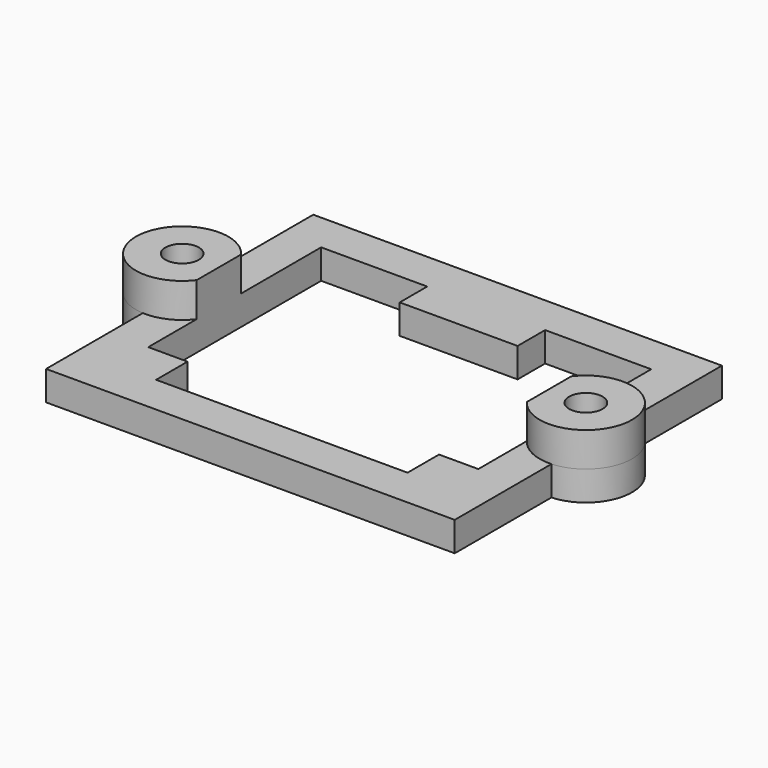
from build123d import *

# Parameters (mm, degrees)
F0_R     = 1.7
F1_DEPTH = 3
F2_R     = 1.7
F3_DEPTH = 3.5


with BuildPart() as f1:
    # F0 (on Top) → F1 (new body)
    with BuildSketch(Plane.XY):
        with BuildLine():
            Line((-20.8, -4.693346), (-20.8, -17))
            Line((-20.8, -17), (20.8, -17))
            Line((20.8, -17), (20.8, -4.693346))
            ThreePointArc((20.8, -4.693346), (25.25, 0), (20.8, 4.693346))
            Line((20.8, 4.693346), (20.8, 17))
            Line((20.8, 17), (-20.8, 17))
            Line((-20.8, 17), (-20.8, 4.693346))
            ThreePointArc((-20.8, 4.693346), (-25.25, 0), (-20.8, -4.693346))
        make_face()
        with Locations((-20.55, 0)):
            Circle(F0_R, mode=Mode.SUBTRACT)
        Polygon((-6, 13), (-6, 9.5), (6, 9.5), (6, 13), (16.8, 13), (16.8, -9), (12.8, -9), (12.8, -13), (-12.8, -13), (-12.8, -9), (-16.8, -9), (-16.8, 13), align=None, mode=Mode.SUBTRACT)
        with Locations((20.55, 0)):
            Circle(F0_R, mode=Mode.SUBTRACT)
    extrude(amount=F1_DEPTH)

    # F2 (on face) → F3 (join)
    with BuildSketch(Plane.XY.offset(3)):
        with BuildLine():
            Line((-16.8, -2.833284), (-16.8, 2.833284))
            ThreePointArc((-16.8, 2.833284), (-25.25, 0), (-16.8, -2.833284))
        make_face()
        with Locations((-20.55, 0)):
            Circle(F2_R, mode=Mode.SUBTRACT)
        with BuildLine():
            ThreePointArc((16.8, -2.833284), (25.25, 0), (16.8, 2.833284))
            Line((16.8, 2.833284), (16.8, -2.833284))
        make_face()
        with Locations((20.55, 0)):
            Circle(F2_R, mode=Mode.SUBTRACT)
    extrude(amount=F3_DEPTH)


solid = f1.part
